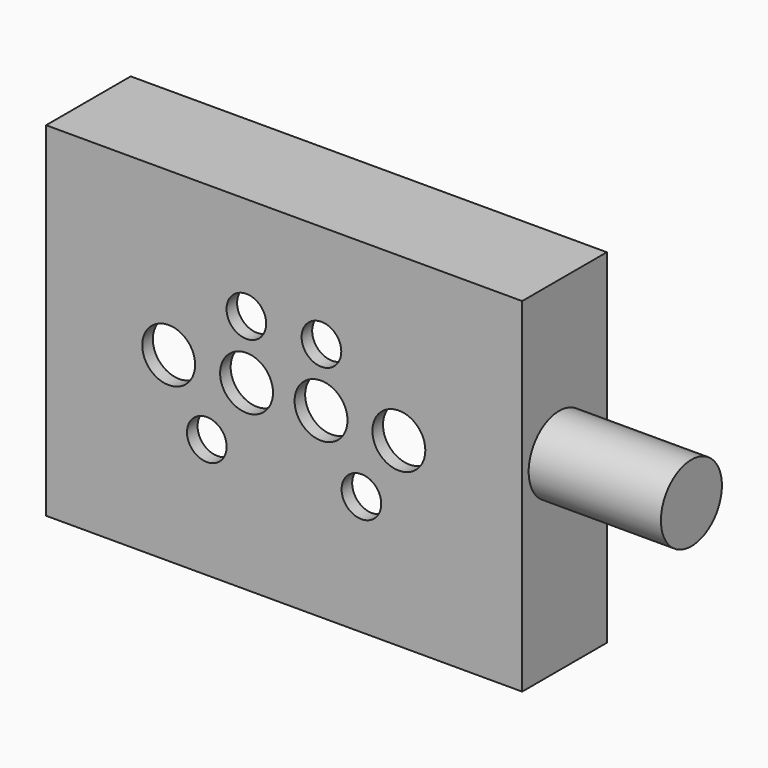
from build123d import *

# Parameters (mm, degrees)
F0_W     = 457.2
F0_H     = 330.2
F1_DEPTH = 101.6
F2_W     = 412.75
F2_H     = 292.1
F3_DEPTH = 88.9
F4_R     = 25.4
F4_R_2   = 19.05
F5_DEPTH = 12.7
F6_R     = 36.615216
F7_DEPTH = 127


with BuildPart() as f1:
    # F0 (on Front) → F1 (new body)
    with BuildSketch(Plane.XZ):
        with Locations((0.697471, -6.70637)):
            Rectangle(F0_W, F0_H)
    extrude(amount=F1_DEPTH)

    # F2 (on face) → F3 (cut)
    with BuildSketch(Plane(origin=(0, 0, 0), x_dir=(-1, 0, 0), z_dir=(0, 1, 0))):
        with Locations((0, -9.88137)):
            Rectangle(F2_W, F2_H)
    extrude(amount=-F3_DEPTH, mode=Mode.SUBTRACT)

    # F4 (on face) → F5 (cut, through all)
    with BuildSketch(Plane.XZ.offset(101.6)):
        with Locations((-35.404028, 3.124894)):
            Circle(F4_R)
        with Locations((-110.152276, 2.381926)):
            Circle(F4_R)
        with Locations((-35.554084, 59.31631)):
            Circle(F4_R_2)
        with Locations((-73.534027, -57.157114)):
            Circle(F4_R_2)
        with Locations((36.530149, 59.164049)):
            Circle(F4_R_2)
        with Locations((110.887155, 1.915031)):
            Circle(F4_R)
        with Locations((36.142713, 2.973768)):
            Circle(F4_R)
        with Locations((74.928969, -57.157114)):
            Circle(F4_R_2)
    extrude(amount=-F5_DEPTH, mode=Mode.SUBTRACT)

    # F6 (on face) → F7 (join)
    with BuildSketch(Plane.YZ.offset(229.297471)):
        with Locations((-57.18055, 10.966711)):
            Circle(F6_R)
    extrude(amount=F7_DEPTH)


solid = f1.part
